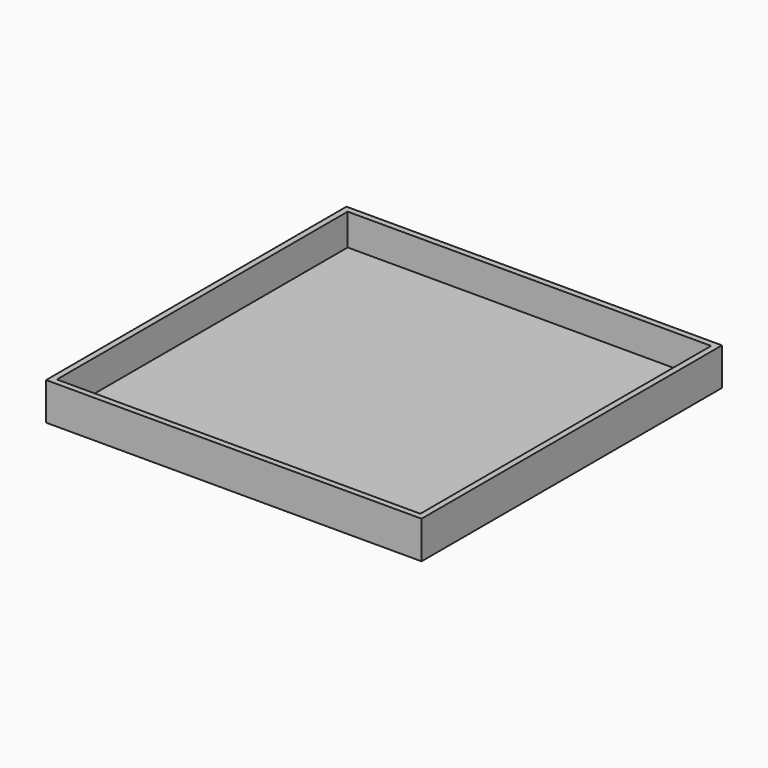
from build123d import *

# Parameters (mm, degrees)
F0_W     = 122.936
F0_H     = 122.936
F1_DEPTH = 2.032
F0_W_2   = 127
F0_H_2   = 127
F2_DEPTH = 12.7


with BuildPart() as f1:
    # F0 (on Top) → F1 (new body)
    with BuildSketch(Plane.XY):
        with Locations((63.5, -63.5)):
            Rectangle(F0_W, F0_H)
    extrude(amount=F1_DEPTH)

    # F0 (on Top) → F2 (join)
    with BuildSketch(Plane.XY):
        with Locations((63.5, -63.5)):
            Rectangle(F0_W_2, F0_H_2)
        with Locations((63.5, -63.5)):
            Rectangle(F0_W, F0_H, mode=Mode.SUBTRACT)
    extrude(amount=F2_DEPTH)


solid = f1.part
